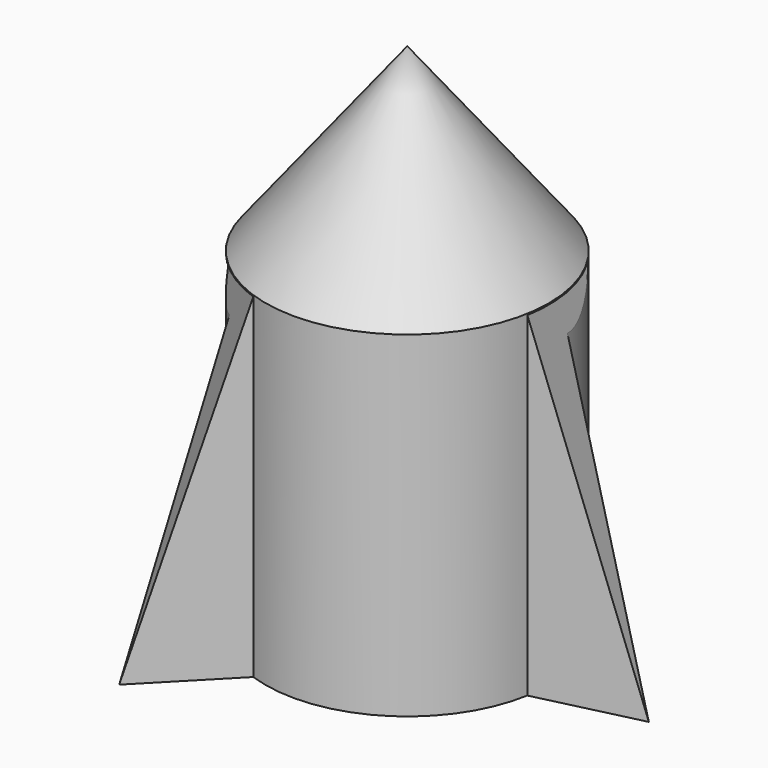
from build123d import *

# Parameters (mm, degrees)
F3_DEPTH = 66
F5_DEPTH = 25
F7_DEPTH = 25


with BuildPart() as f1:
    # F0 (on Right) → F1 (revolve)
    with BuildSketch(Plane.YZ):
        Polygon((27.9374904931, 66.2788972259), (0, 101.8101840481), (0, 0), (27.9374904931, 0), align=None)
    revolve(axis=Axis((0, 0, 50.905092024), (0, 0, 1)))

    # F2 (on Top) → F3 (join)
    with BuildSketch(Plane.XY):
        Polygon((47.6167220591, 0), (27.1738618612, 5.2120122127), (27.5337807834, -4.8169167712), align=None)
        Polygon((-9.5953180999, 26.2534120063), (-23.8083610295, 41.2372909481), (-18.1006659117, 20.9272485844), align=None)
        Polygon((-17.9384626835, -21.4364952351), (-23.8083610295, -41.2372909481), (-9.0731959496, -26.1392607971), align=None)
    extrude(amount=F3_DEPTH)

    # F4 (on face) → F5 (cut)
    with BuildSketch(Plane(origin=(2.5903057561, -10.7996382035, 0), x_dir=(0.9724201368, 0.2332360983, 0), z_dir=(0.2332360983, -0.9724201368, 0))):
        Polygon((46.3034593785, 66), (25.6509240024, 66), (46.3034593785, 0), align=None)
    extrude(amount=-F5_DEPTH, mode=Mode.SUBTRACT)

    # F6 (on face) → F7 (cut)
    with BuildSketch(Plane(origin=(8.4188237579, -8.2164862973, 0), x_dir=(0.6984544852, 0.7156544782, 0), z_dir=(0.7156544782, -0.6984544852, 0))):
        Polygon((-46.1407084808, 66), (-46.1407084808, 0), (-25.3400105467, 66), align=None)
    extrude(amount=-F7_DEPTH, mode=Mode.SUBTRACT)


solid = f1.part
